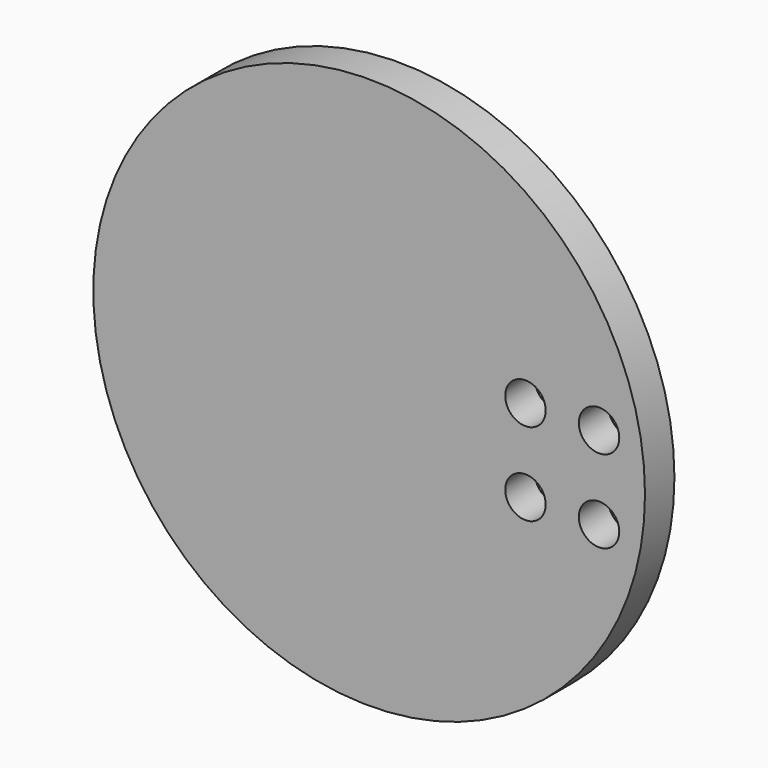
from build123d import *

# Parameters (mm, degrees)
CYLINDER051_R          = 2.2
CYLINDER051_DEPTH      = 26
CYLINDER051_ROLL_ANGLE = -90
ARRAY019_X_COUNT       = 2
ARRAY019_X_PITCH       = 8
ARRAY019_Z_COUNT       = 2
ARRAY019_Z_PITCH       = 9
CYLINDER050_R          = 30
CYLINDER050_DEPTH      = 4
CYLINDER050_ROLL_ANGLE = -90


with BuildPart() as obj1:
    # Cylinder051 → Cylinder051 (new body)
    with BuildSketch(Plane.XY):
        Circle(CYLINDER051_R)
    extrude(amount=CYLINDER051_DEPTH)


with BuildPart() as obj1_1:
    # Cylinder051 roll: moved
    add(obj1.part.rotate(Axis((0, 0, 0), (1, 0, 0)), CYLINDER051_ROLL_ANGLE))


with BuildPart() as obj1_2:
    # Cylinder051 placement: moved
    add(obj1_1.part.moved(Location((202, 0, 4))))

    # Array019 X: obj1_2


with BuildPart() as obj1_3:
    add(obj1_2.part)
    with Locations(*[(i * ARRAY019_X_PITCH, 0, 0) for i in range(1, ARRAY019_X_COUNT)]):
        add(obj1_2.part)

    # Array019 Z: obj1_2


with BuildPart() as obj1_4:
    add(obj1_3.part)
    with Locations(*[(0, 0, i * ARRAY019_Z_PITCH) for i in range(1, ARRAY019_Z_COUNT)]):
        add(obj1_3.part)


with BuildPart() as obj2:
    # Cylinder050 → Cylinder050 (new body)
    with BuildSketch(Plane.XY):
        Circle(CYLINDER050_R)
    extrude(amount=CYLINDER050_DEPTH)


with BuildPart() as obj2_1:
    # Cylinder050 roll: moved
    add(obj2.part.rotate(Axis((0, 0, 0), (1, 0, 0)), CYLINDER050_ROLL_ANGLE))


with BuildPart() as obj2_2:
    # Cylinder050 placement: moved
    add(obj2_1.part.moved(Location((185, 20, 8.5))))

    # Cut055: cut obj1
    add(obj1_4.part, mode=Mode.SUBTRACT)


with BuildPart() as obj2_3:
    # Cut055 placement: moved
    add(obj2_2.part.moved(Location((-171, -4, 0))))


with BuildPart() as obj3:
    # Part__Mirroring019: instance of obj2
    add(obj2_3.part.mirror(Plane(origin=(0, 0, 0), x_dir=(1, 0, 0), z_dir=(0, 1, 0))))


with BuildPart() as obj3_1:
    # Part__Mirroring019 placement: moved
    add(obj3.part.moved(Location((0, -178, 0))))


solid = obj3_1.part
